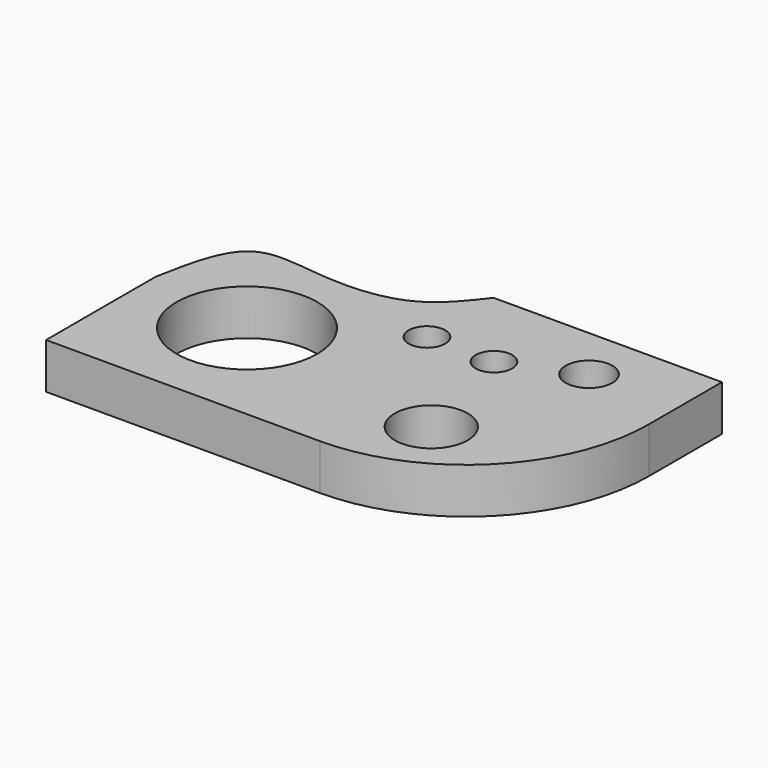
from build123d import *

# Parameters (mm, degrees)
F0_R     = 7.6997790139
F0_R_2   = 3.9931020536
F0_R_3   = 2
F0_R_4   = 2.5532125323
F1_DEPTH = 5


with BuildPart() as f1:
    # F0 (on Top) → F1 (new body)
    with BuildSketch(Plane.XY):
        with BuildLine():
            Line((0, 15), (0, 0))
            Line((0, 0), (30, 0))
            ThreePointArc((30, 0), (44.1421356237, 5.8578643763), (50, 20))
            Line((50, 20), (50, 30))
            Line((50, 30), (25, 30))
            add(Edge.make_bspline(
                [(0, 15), (0.6988416774, 18.6919691411), (2.0315523911, 25.7326580241), (11.2929241749, 23.5562626748), (20.5075058483, 24.1973604022), (23.5702266181, 28.1532620051), (25, 30)],
                knots=[0, 0, 0, 0, 0.2672508916, 0.5096549591, 0.771091673, 1, 1, 1, 1], degree=3))
        make_face()
        with Locations((12.0205888525, 12.46580109)):
            Circle(F0_R, mode=Mode.SUBTRACT)
        with Locations((35.7649773359, 8.0137299374)):
            Circle(F0_R_2, mode=Mode.SUBTRACT)
        with Locations((25.0799972564, 20.77633515)):
            Circle(F0_R_3, mode=Mode.SUBTRACT)
        with Locations((32.415881753, 20.77633515)):
            Circle(F0_R_3, mode=Mode.SUBTRACT)
        with Locations((40.2170456946, 24.0411870182)):
            Circle(F0_R_4, mode=Mode.SUBTRACT)
    extrude(amount=F1_DEPTH)


solid = f1.part
